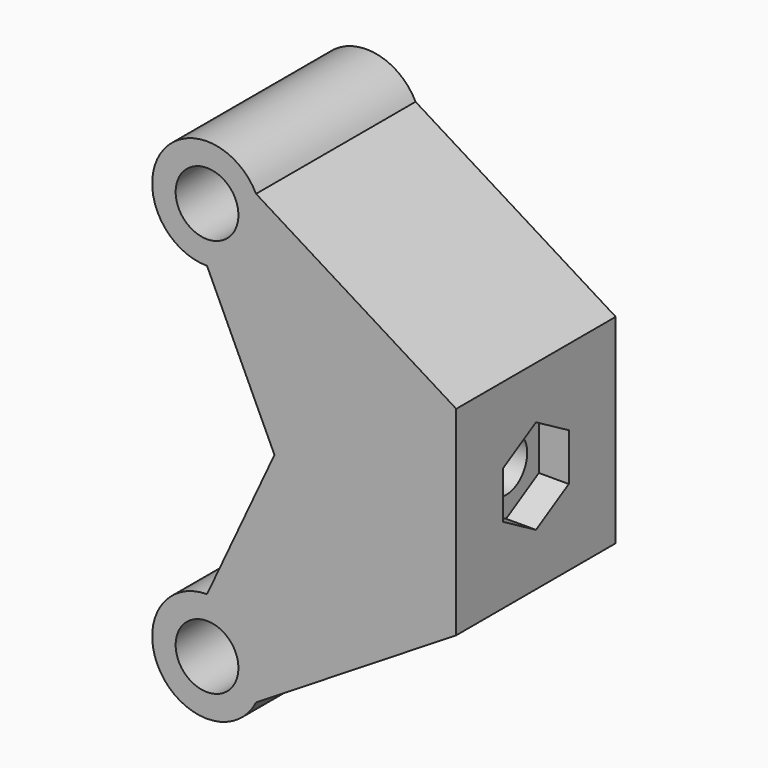
from build123d import *

# Parameters (mm, degrees)
F1_DEPTH  = 10
F2_W      = 5
F2_H      = 20
F3_DEPTH  = 20
F5_DEPTH  = 3
F8_DEPTH  = 12
F9_R      = 5.5
F10_DEPTH = 20
F11_R     = 2.65
F12_DEPTH = 25
F13_R     = 3.15
F14_DEPTH = 25
F16_DEPTH = 20
F18_DEPTH = 25


with BuildPart() as f1:
    # F0 (on Front) → F1 (new body, symmetric)
    with BuildSketch(Plane.XZ):
        Polygon((-10, 20), (-10, -20), (10, -10), (10, 10), align=None)
    extrude(amount=F1_DEPTH, both=True)

    # F2 (on face) → F3 (join, through all)
    with BuildSketch(Plane.XZ.offset(10)):
        with Locations((12.5, 0)):
            Rectangle(F2_W, F2_H)
    extrude(amount=-F3_DEPTH)

    # F4 (on face) → F5 (cut)
    with BuildSketch(Plane.YZ.offset(15)):
        Polygon((0, -4.75), (4.113620668, -2.375), (4.113620668, 2.375), (0, 4.75), (-4.1136206679, 2.375), (-4.1136206679, -2.375), align=None)
    extrude(amount=-F5_DEPTH, mode=Mode.SUBTRACT)

    # F7 (on offset) → F8 (cut, through all)
    with BuildSketch(Plane.XZ.offset(6)):
        Polygon((-10, 17), (-10, -17), (10, -7), (10, 7), align=None)
    extrude(amount=-F8_DEPTH, mode=Mode.SUBTRACT)

    # F9 (on face) → F10 (join, through all)
    with BuildSketch(Plane.XZ.offset(10)):
        with Locations((-10, 20)):
            Circle(F9_R)
        with Locations((-10, -20)):
            Circle(F9_R)
    extrude(amount=-F10_DEPTH)

    # F11 (on face) → F12 (cut)
    with BuildSketch(Plane.YZ.offset(12)):
        Circle(F11_R)
    extrude(amount=-F12_DEPTH, mode=Mode.SUBTRACT)

    # F13 (on face) → F14 (cut)
    with BuildSketch(Plane(origin=(0, 10, 0), x_dir=(-1, 0, 0), z_dir=(0, 1, 0))):
        with Locations((10, -20)):
            Circle(F13_R)
        with Locations((10, 20)):
            Circle(F13_R)
    extrude(amount=-F14_DEPTH, mode=Mode.SUBTRACT)

    # F15 (on face) → F16 (join, through all)
    with BuildSketch(Plane(origin=(0, 10, 0), x_dir=(-1, 0, 0), z_dir=(0, 1, 0))):
        Polygon((-10, 10), (5.0806504495, 17.5403252248), (5.0806504495, 22.4596747752), (-15, 10), align=None)
        Polygon((5.0806504495, -22.4596747752), (5.0806504495, -17.5403252248), (-10, -10), (-15, -10), align=None)
    extrude(amount=-F16_DEPTH)

    # F17 (on face) → F18 (cut)
    with BuildSketch(Plane.XZ.offset(10)):
        Polygon((-3.2343349885, 0), (-10, 14.5), (-10, -14.5), align=None)
    extrude(amount=-F18_DEPTH, mode=Mode.SUBTRACT)


solid = f1.part
